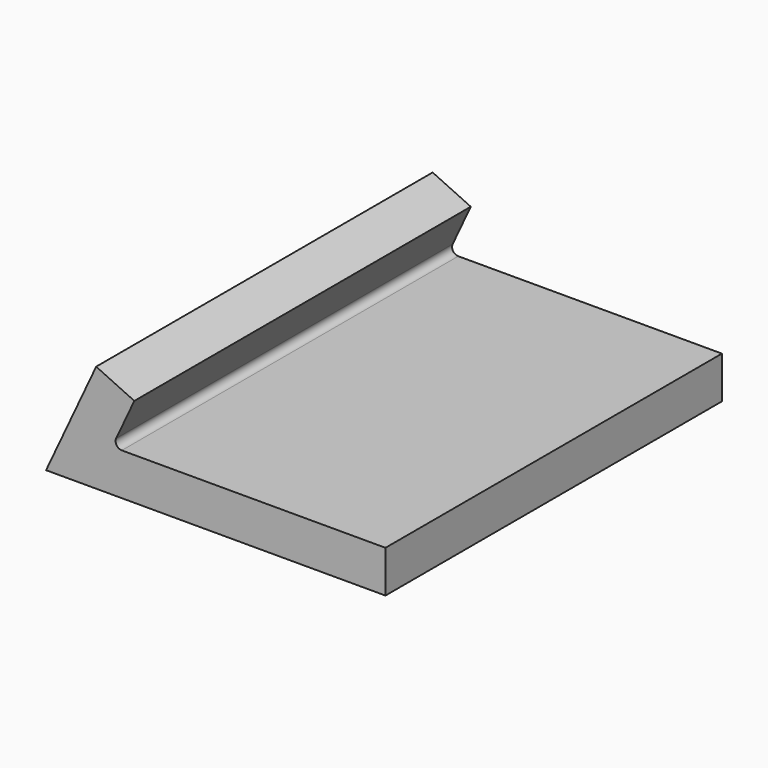
from build123d import *

# Parameters (mm, degrees)
F1_DEPTH = 20


with BuildPart() as f1:
    # F0 (on Front) → F1 (new body)
    with BuildSketch(Plane.XZ):
        with BuildLine():
            Line((2.383301, 5.111006), (0, 0))
            Line((0, 0), (16.139371, 0))
            Line((16.139371, 0), (16.139371, 2))
            Line((16.139371, 2), (3.601872, 2))
            ThreePointArc((3.601872, 2), (3.35337, 2.136333), (3.334832, 2.419168))
            Line((3.334832, 2.419168), (4.195917, 4.265769))
            Line((4.195917, 4.265769), (2.383301, 5.111006))
        make_face()
    extrude(amount=F1_DEPTH)


solid = f1.part
